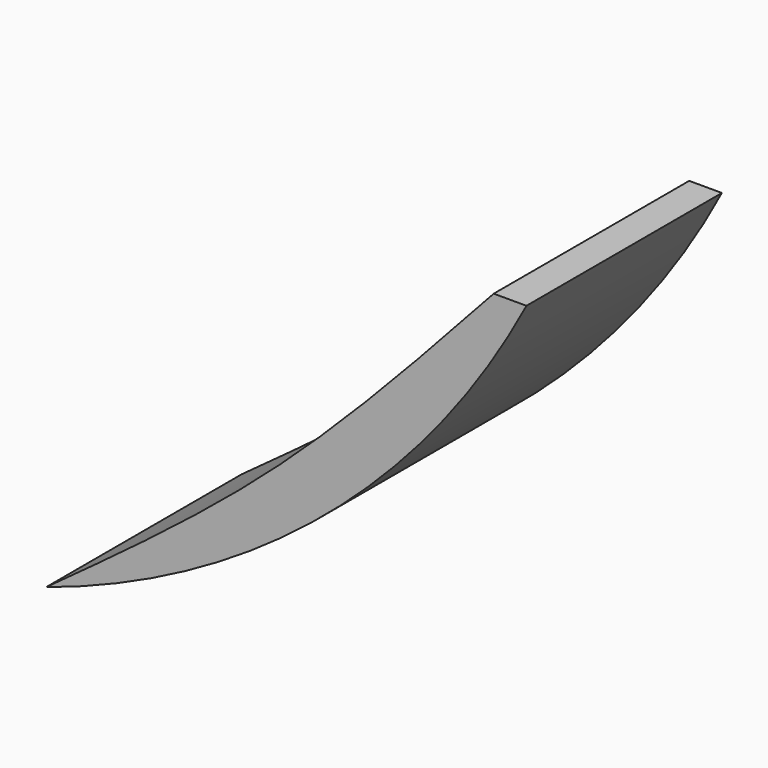
from build123d import *

# Parameters (mm, degrees)
F1_DEPTH = 25.4


with BuildPart() as f1:
    # F0 (on Front) → F1 (new body)
    with BuildSketch(Plane.XZ):
        with BuildLine():
            add(Edge.make_bspline(
                [(46.5306378901, 41.9910661876), (39.01666788, 33.7825154323), (24.3386832979, 17.7477187447), (7.9829085506, 5.8211208054), (0, 0)],
                knots=[0, 0, 0, 0, 0.5119210998, 1, 1, 1, 1], degree=3))
            ThreePointArc((0, 0), (29.0776441209, 16.1079838703), (49.9353185296, 41.9910661876))
            Line((49.9353185296, 41.9910661876), (46.5306378901, 41.9910661876))
        make_face()
    extrude(amount=-F1_DEPTH)


solid = f1.part
